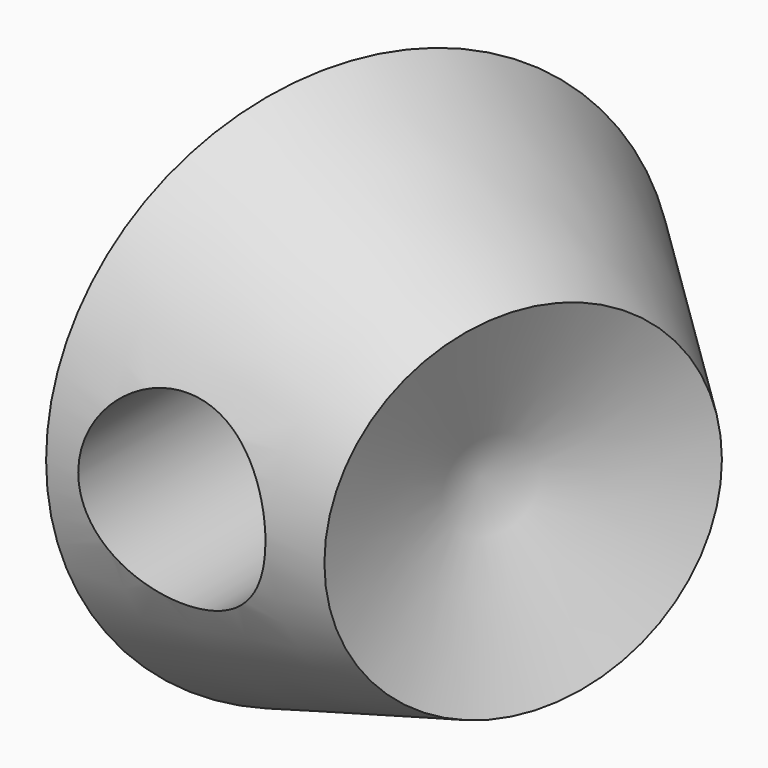
from build123d import *

# Parameters (mm, degrees)
F3_D = 50.8


with BuildPart() as f1:
    # F0 (on Top) → F1 (revolve)
    with BuildSketch(Plane.XY):
        Polygon((0, 42.160987854), (0, 0), (75.5231976509, 0), (76.6230523586, 51.6930446029), (16.3144767284, 75.8897960186), align=None)
    revolve(axis=Axis((46.4687645435, 63.7914203107, 0), (-0.9280870995, 0.3723631773, 0)))

    # F3 (through all)
    with Locations(Plane.XZ):
        with Locations((34.1290648442, 0)):
            Hole(F3_D / 2)


solid = f1.part
